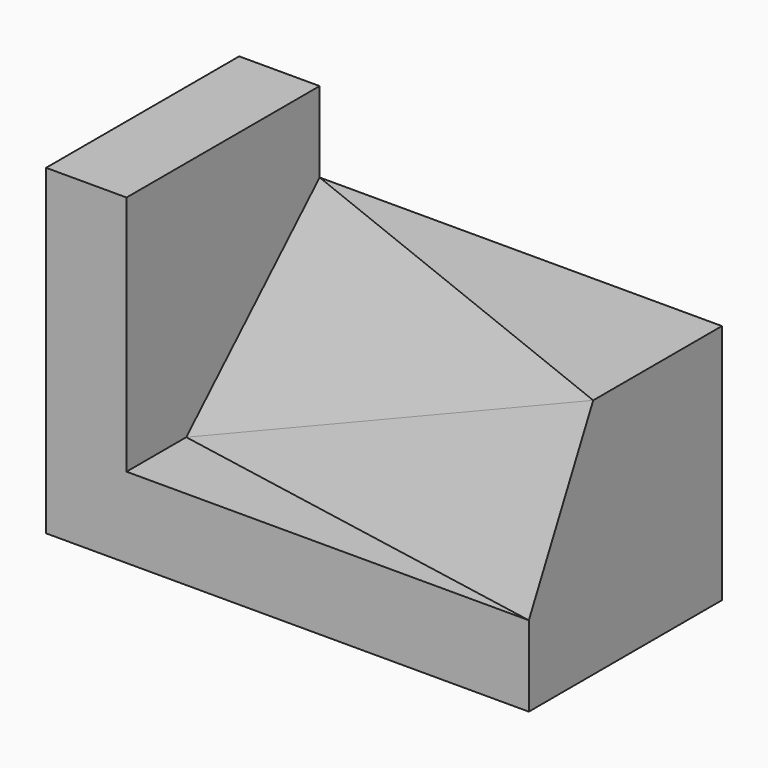
from build123d import *

# Parameters (mm, degrees)
F0_W      = 6
F0_H      = 3
F1_DEPTH  = 3
F2_W      = 1
F2_H      = 3
F3_DEPTH  = 1
F5_DEPTH  = 2
F9_DEPTH  = 3
F10_DEPTH = 25
F14_DEPTH = 25
F15_W     = 1
F15_H     = 3
F16_DEPTH = 3


with BuildPart() as f1:
    # F0 (on Top) → F1 (new body)
    with BuildSketch(Plane.XY):
        with Locations((3, 1.5)):
            Rectangle(F0_W, F0_H)
    extrude(amount=F1_DEPTH)

    # F2 (on face) → F3 (join)
    with BuildSketch(Plane.XY.offset(3)):
        with Locations((0.5, 1.5)):
            Rectangle(F2_W, F2_H)
    extrude(amount=F3_DEPTH)

    # F4 (on face) → F5 (cut)
    with BuildSketch(Plane.XY.offset(3)):
        Polygon((1, 0.9279345977), (1, 0), (6, 0), align=None)
    extrude(amount=-F5_DEPTH, mode=Mode.SUBTRACT)

    # F9 (cut): a face of the model
    f9_faces = [f1.faces().sort_by_distance(p)[0] for p in [
        (0.5, 1.5, 4),
    ]]
    extrude(f9_faces, amount=-F9_DEPTH, mode=Mode.SUBTRACT)

    # F8 (on 3pt) → F10 (cut)
    with BuildSketch(Plane(origin=(0.0522802245, 0.1307005612, -0.1354100555), x_dir=(0.9635139775, -0.1858842133, 0.1925821236), z_dir=(0.2676580189, 0.6691450473, -0.6932561508))):
        Polygon((0.9836077085, -1.3621405037), (0.9836077085, -4.241976442), (6.1729460228, -2.80296016), align=None)
    extrude(amount=-F10_DEPTH, mode=Mode.SUBTRACT)

    # F13 (on 3pt) → F14 (cut)
    with BuildSketch(Plane(origin=(0.0886466837, 0.4776558818, -0.2388279409), x_dir=(0.9865013232, -0.1464653934, 0.0732326967), z_dir=(-0.163753288, -0.8823536074, 0.4411768037))):
        Polygon((1.090059639, 3.2898643985), (0.923823714, 1.3094121588), (5.9922406359, 0.894427191), (6.7155025899, 0.894427191), (6.2731583603, 3.703357419), align=None)
    extrude(amount=F14_DEPTH, mode=Mode.SUBTRACT)

    # F15 (on face) → F16 (join)
    with BuildSketch(Plane.XY.offset(1)):
        with Locations((0.5, 1.5)):
            Rectangle(F15_W, F15_H)
    extrude(amount=F16_DEPTH)


solid = f1.part
